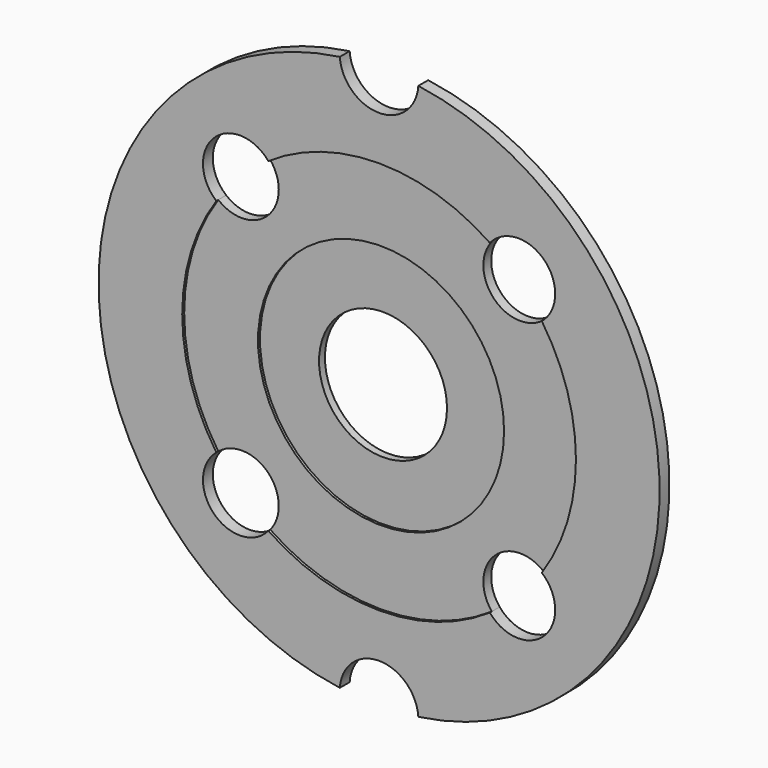
from build123d import *

# Parameters (mm, degrees)
F1_DEPTH = 25
F0_R     = 250
F2_DEPTH = 20
F0_R_2   = 130
F3_DEPTH = 15


with BuildPart() as f1:
    # F0 (on Front) → F1 (new body)
    with BuildSketch(Plane.XZ):
        with BuildLine():
            ThreePointArc((79.802773, 564.385965), (0, 490), (-79.802773, 564.385965))
            ThreePointArc((-79.802773, 564.385965), (-570, 0), (-79.802773, -564.385965))
            ThreePointArc((-79.802773, -564.385965), (0, -490), (79.802773, -564.385965))
            ThreePointArc((79.802773, -564.385965), (570, 0), (79.802773, 564.385965))
        make_face()
        with BuildLine():
            ThreePointArc((-330.670307, 225.071429), (-335.875721, 335.875721), (-225.071429, 330.670307))
            ThreePointArc((-225.071429, 330.670307), (0, 400), (225.071429, 330.670307))
            ThreePointArc((225.071429, 330.670307), (308.260755, 353.404197), (357.842712, 282.842712))
            ThreePointArc((357.842712, 282.842712), (350.710487, 250.921478), (330.670307, 225.071429))
            ThreePointArc((330.670307, 225.071429), (400, 0), (330.670307, -225.071429))
            ThreePointArc((330.670307, -225.071429), (350.710487, -250.921478), (357.842712, -282.842712))
            ThreePointArc((357.842712, -282.842712), (308.260755, -353.404197), (225.071429, -330.670307))
            ThreePointArc((225.071429, -330.670307), (0, -400), (-225.071429, -330.670307))
            ThreePointArc((-225.071429, -330.670307), (-335.875721, -335.875721), (-330.670307, -225.071429))
            ThreePointArc((-330.670307, -225.071429), (-400, 0), (-330.670307, 225.071429))
        make_face(mode=Mode.SUBTRACT)
    extrude(amount=F1_DEPTH)

    # F0 (on Front) → F2 (join)
    with BuildSketch(Plane.XZ):
        with BuildLine():
            ThreePointArc((-225.071429, 330.670307), (-212.281228, 308.260755), (-207.842712, 282.842712))
            ThreePointArc((-207.842712, 282.842712), (-250.921478, 214.974938), (-330.670307, 225.071429))
            ThreePointArc((-330.670307, 225.071429), (-400, 0), (-330.670307, -225.071429))
            ThreePointArc((-330.670307, -225.071429), (-250.921478, -214.974938), (-207.842712, -282.842712))
            ThreePointArc((-207.842712, -282.842712), (-212.281228, -308.260755), (-225.071429, -330.670307))
            ThreePointArc((-225.071429, -330.670307), (0, -400), (225.071429, -330.670307))
            ThreePointArc((225.071429, -330.670307), (229.809704, -229.809704), (330.670307, -225.071429))
            ThreePointArc((330.670307, -225.071429), (400, 0), (330.670307, 225.071429))
            ThreePointArc((330.670307, 225.071429), (229.809704, 229.809704), (225.071429, 330.670307))
            ThreePointArc((225.071429, 330.670307), (0, 400), (-225.071429, 330.670307))
        make_face()
        Circle(F0_R, mode=Mode.SUBTRACT)
    extrude(amount=F2_DEPTH)

    # F0 (on Front) → F3 (join)
    with BuildSketch(Plane.XZ):
        Circle(F0_R)
        Circle(F0_R_2, mode=Mode.SUBTRACT)
    extrude(amount=F3_DEPTH)


solid = f1.part
